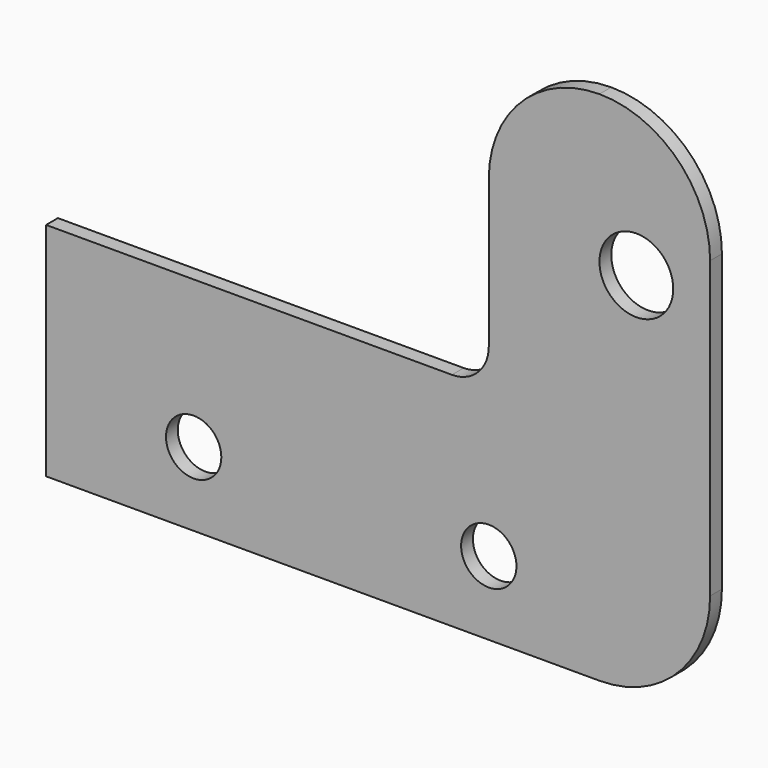
from build123d import *

# Parameters (mm, degrees)
F1_DEPTH = 2
F2_R     = 3.75
F2_R_2   = 5
F3_DEPTH = 25


with BuildPart() as f1:
    # F0 (on Front) → F1 (new body)
    with BuildSketch(Plane.XZ):
        with BuildLine():
            Line((0, 30), (0, 0))
            Line((0, 0), (75, 0))
            ThreePointArc((75, 0), (85.606602, 4.393398), (90, 15))
            Line((90, 15), (90, 55))
            ThreePointArc((90, 55), (85.606602, 65.606602), (75, 70))
            ThreePointArc((75, 70), (64.393398, 65.606602), (60, 55))
            Line((60, 55), (60, 35))
            ThreePointArc((60, 35), (58.535534, 31.464466), (55, 30))
            Line((55, 30), (0, 30))
        make_face()
    extrude(amount=F1_DEPTH)

    # F2 (on face) → F3 (cut)
    with BuildSketch(Plane.XZ.offset(2)):
        with Locations((20, 10)):
            Circle(F2_R)
        with Locations((60, 10)):
            Circle(F2_R)
        with Locations((80, 50)):
            Circle(F2_R_2)
    extrude(amount=-F3_DEPTH, mode=Mode.SUBTRACT)


solid = f1.part
